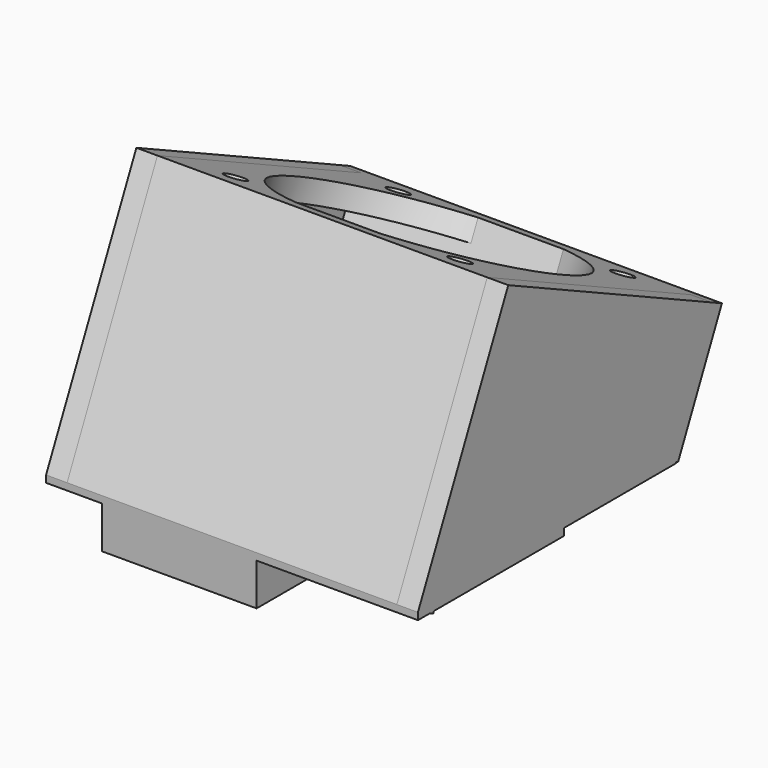
from build123d import *

# Parameters (mm, degrees)
SKETCH_W      = 53
SKETCH_H      = 20
SKETCH_W_2    = 12
SKETCH_H_2    = 10
PAD_DEPTH     = 4
PAD001_DEPTH  = 3
PAD002_DEPTH  = 3
SKETCH002_W   = 53
SKETCH002_H   = 38.0651251893
PAD003_DEPTH  = 3
SKETCH003_W   = 53
SKETCH003_H   = 42
SKETCH003_R   = 19
SKETCH003_R_2 = 1.5
PAD004_DEPTH  = 3
SKETCH004_W   = 53
SKETCH004_H   = 18.48
PAD005_DEPTH  = 3
SKETCH005_W   = 53
SKETCH005_H   = 26
SKETCH005_W_2 = 18
SKETCH005_H_2 = 8
PAD006_DEPTH  = 1
SKETCH006_W   = 22
SKETCH006_H   = 13.310112688
SKETCH006_W_2 = 18
SKETCH006_H_2 = 9.310112688
PAD007_DEPTH  = 6


with BuildPart() as part:
    # Sketch → Pad (new body)
    with BuildSketch(Plane.XY):
        with Locations((26.5, 10)):
            Rectangle(SKETCH_W, SKETCH_H)
        with BuildLine():
            ThreePointArc((48, 15), (46.5, 16.5), (45, 15))
            Line((45, 15), (45, 5))
            ThreePointArc((45, 5), (46.5, 3.5), (48, 5))
            Line((48, 15), (48, 5))
        make_face(mode=Mode.SUBTRACT)
        with BuildLine():
            ThreePointArc((8, 15), (6.5, 16.5), (5, 15))
            Line((5, 15), (5, 5))
            ThreePointArc((5, 5), (6.5, 3.5), (8, 5))
            Line((8, 15), (8, 5))
        make_face(mode=Mode.SUBTRACT)
        with Locations((26.5, 10)):
            Rectangle(SKETCH_W_2, SKETCH_H_2, mode=Mode.SUBTRACT)
    extrude(amount=PAD_DEPTH)

    # Sketch001 (on Face1 of Pad) → Pad001 (join)
    with BuildSketch(Plane(origin=(0, 0, 0), x_dir=(0, -1, 0), z_dir=(-1, 0, 0))):
        Polygon((-26.3390883587, 17.5947033355), (9.9134538694, 34.4989389586), (26, 0), (0, 0), (0, 4), (-20, 4), align=None)
    extrude(amount=-PAD001_DEPTH)

    # CopySketch002 → Pad002 (join)
    with BuildSketch(Plane(origin=(53, 0, 0), x_dir=(0, -1, 0), z_dir=(-1, 0, 0))):
        Polygon((-26.3390883587, 17.5947033355), (9.9134538694, 34.4989389586), (26, 0), (0, 0), (0, 4), (-20, 4), align=None)
    extrude(amount=PAD002_DEPTH)

    # Sketch002 (on Face30 of Pad002) → Pad003 (join)
    with BuildSketch(Plane(origin=(0, -21.3565107925, 9.9583496311), x_dir=(1, 0, 0), z_dir=(0, -0.9063135557, 0.4226058906))):
        with Locations((26.5, 8.0448094397)):
            Rectangle(SKETCH002_W, SKETCH002_H)
    extrude(amount=-PAD003_DEPTH)

    # Sketch003 (on Face27 of Pad003) → Pad004 (join)
    with BuildSketch(Plane(origin=(0, 11.4430569231, 24.5405893275), x_dir=(1, 0, 0), z_dir=(0, 0.4226058906, 0.9063135557))):
        with Locations((26.5, -2.5641524483)):
            Rectangle(SKETCH003_W, SKETCH003_H)
        with Locations((26.5, -2.5641524483)):
            Circle(SKETCH003_R, mode=Mode.SUBTRACT)
        with Locations((42.5, 13.4358475517)):
            Circle(SKETCH003_R_2, mode=Mode.SUBTRACT)
        with Locations((10.5, 13.4358475517)):
            Circle(SKETCH003_R_2, mode=Mode.SUBTRACT)
        with Locations((10.5, -18.5641524483)):
            Circle(SKETCH003_R_2, mode=Mode.SUBTRACT)
        with Locations((42.5, -18.5641524483)):
            Circle(SKETCH003_R_2, mode=Mode.SUBTRACT)
    extrude(amount=-PAD004_DEPTH)

    # Sketch004 (on Face41 of Pad004) → Pad005 (join)
    with BuildSketch(Plane(origin=(0, 16.708658547, -7.7910977731), x_dir=(-1, 0, 0), z_dir=(0, 0.9063135557, -0.4226058906))):
        with Locations((-26.5, 17.8373720343)):
            Rectangle(SKETCH004_W, SKETCH004_H)
    extrude(amount=-PAD005_DEPTH)

    # Sketch005 (on Face6 of Pad005) → Pad006 (join)
    with BuildSketch(Plane(origin=(0, 0, 0), x_dir=(1, 0, 0), z_dir=(0, 0, -1))):
        with Locations((26.5, 13)):
            Rectangle(SKETCH005_W, SKETCH005_H)
        with Locations((19, 18.689887312)):
            Rectangle(SKETCH005_W_2, SKETCH005_H_2, mode=Mode.SUBTRACT)
    extrude(amount=PAD006_DEPTH)

    # Sketch006 (on Face27 of Pad006) → Pad007 (join)
    with BuildSketch(Plane(origin=(0, 0, -1), x_dir=(1, 0, 0), z_dir=(0, 0, -1))):
        with Locations((19, 19.344943656)):
            Rectangle(SKETCH006_W, SKETCH006_H)
        with Locations((19, 19.344943656)):
            Rectangle(SKETCH006_W_2, SKETCH006_H_2, mode=Mode.SUBTRACT)
    extrude(amount=PAD007_DEPTH)


solid = part.part
